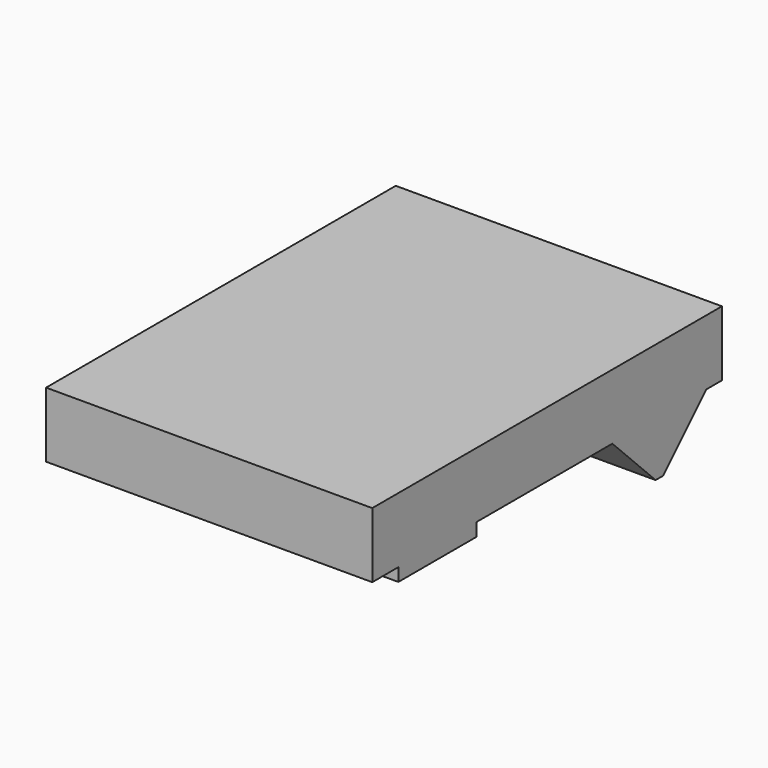
from build123d import *

# Parameters (mm, degrees)
F0_R     = 3.5
F1_DEPTH = 50
F2_SIZE  = 1
F3_W     = 30
F3_H     = 8
F3_W_2   = 5
F4_DEPTH = 10


with BuildPart() as f1:
    # F0 (on Right) → F1 (new body)
    with BuildSketch(Plane.YZ):
        with BuildLine():
            Line((33.2899148837, -4), (33.2899148837, 6))
            Line((33.2899148837, 6), (-33.7100851163, 6))
            Line((-33.7100851163, 6), (-33.7100851163, -4))
            Line((-33.7100851163, -4), (-28.7100851163, -4))
            Line((-28.7100851163, -4), (-28.7100851163, -6))
            Line((-28.7100851163, -6), (-13.7100851163, -6))
            Line((-13.7100851163, -6), (-13.7100851163, -4))
            Line((-13.7100851163, -4), (-6.2100851163, -4))
            Line((-6.2100851163, -4), (-6.2100851163, -12))
            ThreePointArc((-6.2100851163, -12), (-1.2100851163, -17), (3.7899148837, -12))
            Line((3.7899148837, -12), (3.7899148837, -4))
            Line((3.7899148837, -4), (12.2899148837, -4))
            Line((12.2899148837, -4), (21.2899148837, -13))
            Line((21.2899148837, -13), (30.2899148837, -4))
            Line((30.2899148837, -4), (33.2899148837, -4))
        make_face()
        with Locations((-1.2100851163, -12)):
            Circle(F0_R, mode=Mode.SUBTRACT)
    extrude(amount=F1_DEPTH)

    # F2
    f2_edges = [f1.edges().sort_by_distance(p)[0] for p in [
        (25, 21.289915, -13),
    ]]
    chamfer(f2_edges, length=F2_SIZE)

    # F3 (on face) → F4 (cut, through all)
    with BuildSketch(Plane.XZ.offset(6.2100851163)):
        with Locations((35, -8)):
            Rectangle(F3_W, F3_H)
        Polygon((79.836667031, -4), (50, -4), (50, -12), (20, -12), (20, -31.4453998581), (79.836667031, -31.4453998581), align=None)
        with Locations((2.5, -8)):
            Rectangle(F3_W_2, F3_H)
        Polygon((5, -31.5237529576), (5, -12), (0, -12), (0, -4), (-35.2658848278, -4), (-35.2658848278, -31.5237529576), align=None)
    extrude(amount=-F4_DEPTH, mode=Mode.SUBTRACT)


solid = f1.part
